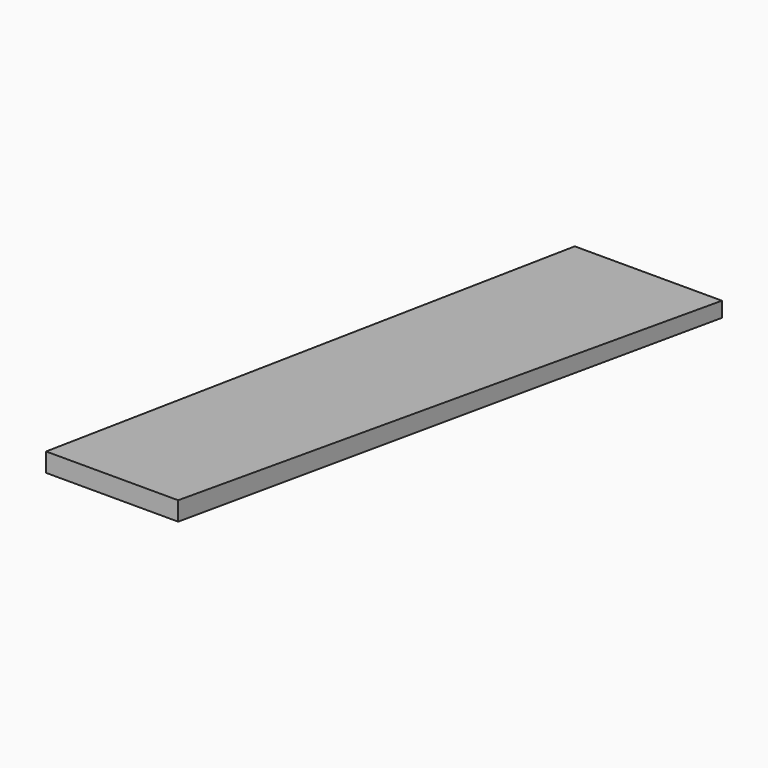
from build123d import *

# Parameters (mm, degrees)
F2_W = 40.375698
F2_H = 4.141096
F1_W = 36.234598
F1_H = 5.17638


with BuildPart() as f3:
    # F2 (on Front) → F3 section 0
    with BuildSketch(Plane.XZ):
        with Locations((0, 19.152585)):
            Rectangle(F2_W, F2_H)
    # F1 (on offset) → F3 section 1
    with BuildSketch(Plane.XZ.offset(183.896)):
        with Locations((0, 44.516817)):
            Rectangle(F1_W, F1_H)
    loft()


solid = f3.part
